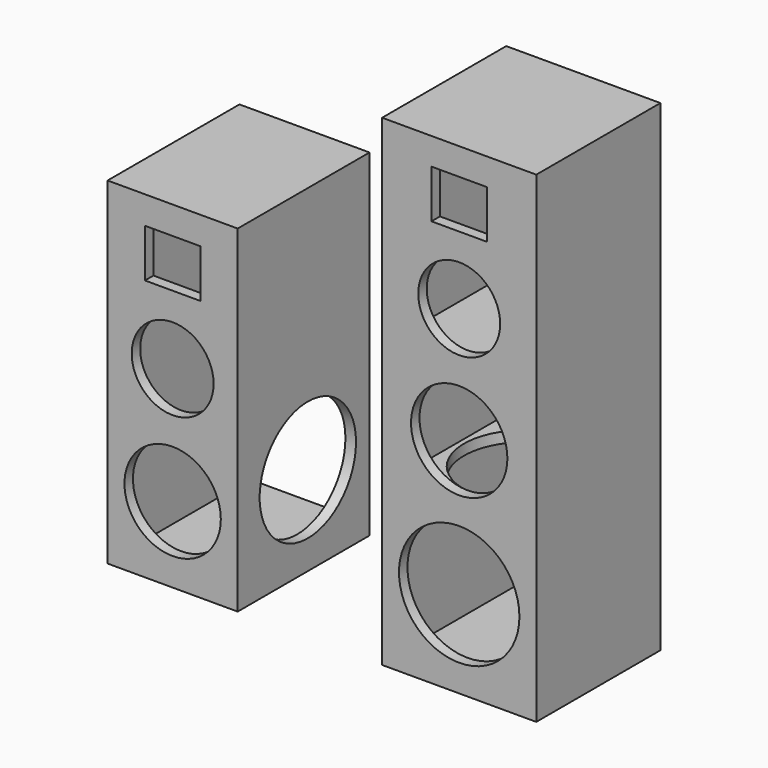
from build123d import *

# Parameters (mm, degrees)
F0_W      = 320
F0_H      = 1000
F0_R      = 125
F0_R_2    = 100
F0_R_3    = 85
F0_W_2    = 115
F0_H_2    = 100
F1_DEPTH  = 22
F0_W_3    = 270
F0_H_3    = 700
F4_DEPTH  = 320
F3_W      = 225.9999704361
F3_H      = 655.9999704361
F5_DEPTH  = 824
F2_W      = 320
F2_H      = 1000
F2_W_2    = 276
F2_H_2    = 956
F6_DEPTH  = 300
F7_R      = 125
F8_DEPTH  = 25
F9_W      = 276
F9_H      = 22
F10_DEPTH = 278
F11_R     = 127.7260322989
F12_DEPTH = 25


with BuildPart() as f1:
    # F0 (on Front) → F1 (new body)
    with BuildSketch(Plane.XZ):
        with Locations((0, 38)):
            Rectangle(F0_W, F0_H)
        with Locations((0, -281)):
            Circle(F0_R, mode=Mode.SUBTRACT)
        Circle(F0_R_2, mode=Mode.SUBTRACT)
        with Locations((0, 241)):
            Circle(F0_R_3, mode=Mode.SUBTRACT)
        with Locations((0, 432)):
            Rectangle(F0_W_2, F0_H_2, mode=Mode.SUBTRACT)
    extrude(amount=F1_DEPTH)

    # F2 (on face) → F6 (join)
    with BuildSketch(Plane(origin=(0, 0, 0), x_dir=(-1, 0, 0), z_dir=(0, 1, 0))):
        with Locations((0, 38)):
            Rectangle(F2_W, F2_H)
        with Locations((0, 38)):
            Rectangle(F2_W_2, F2_H_2, mode=Mode.SUBTRACT)
    extrude(amount=F6_DEPTH)

    # F9 (on face) → F10 (join)
    with BuildSketch(Plane(origin=(0, 0, 0), x_dir=(-1, 0, 0), z_dir=(0, 1, 0))):
        with Locations((0, -128)):
            Rectangle(F9_W, F9_H)
        with Locations((0, 128)):
            Rectangle(F9_W, F9_H)
    extrude(amount=F10_DEPTH)

    # F11 (on face) → F12 (cut)
    with BuildSketch(Plane.XY.offset(-117)):
        with Locations((0, 150)):
            Circle(F11_R)
    extrude(amount=-F12_DEPTH, mode=Mode.SUBTRACT)


with BuildPart() as f1b:
    # F0 (on Front) → F1, piece 2 (new body)
    with BuildSketch(Plane.XZ):
        with Locations((-594.7907733917, -112)):
            Rectangle(F0_W_3, F0_H_3)
        with Locations((-594.7907733917, -304.5)):
            Circle(F0_R_2, mode=Mode.SUBTRACT)
        with Locations((-594.7907733917, -62)):
            Circle(F0_R_3, mode=Mode.SUBTRACT)
        with Locations((-594.7907733917, 130.5)):
            Rectangle(F0_W_2, F0_H_2, mode=Mode.SUBTRACT)
    extrude(amount=F1_DEPTH)

    # F4 (add): a face of the model
    f4_faces = [f1b.faces().sort_by_distance(p)[0] for p in [
        (-594.7907733917, 0, 230.4973338072),
    ]]
    extrude(f4_faces, amount=F4_DEPTH)

    # F3 (on Front) → F5 (cut)
    with BuildSketch(Plane.XZ):
        with Locations((-594.7907733917, -112)):
            Rectangle(F3_W, F3_H)
    extrude(amount=-F5_DEPTH, mode=Mode.SUBTRACT)

    # F7 (on face) → F8 (cut)
    with BuildSketch(Plane.YZ.offset(-459.7907733917)):
        with Locations((160, -277)):
            Circle(F7_R)
    extrude(amount=-F8_DEPTH, mode=Mode.SUBTRACT)


solid = Compound([f1.part, f1b.part])
